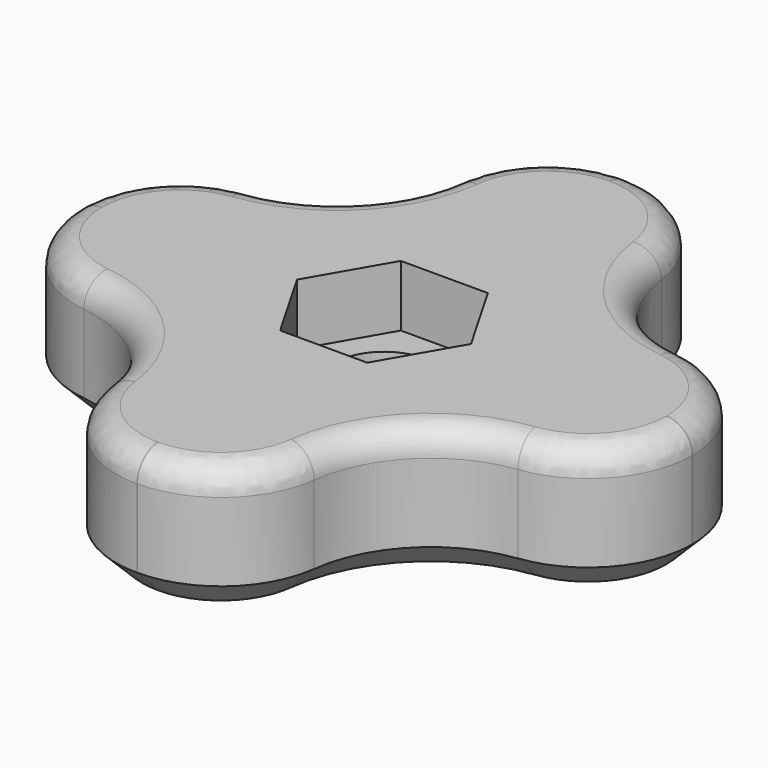
from build123d import *

# Parameters (mm, degrees)
F1_DEPTH = 12.7
F2_DEPTH = 6.731
F3_R     = 4.8895
F4_DEPTH = 25.4
F5_R     = 12.7
F6_R     = 10.16
F7_R     = 2.54
F8_SIZE  = 2.54


with BuildPart() as f1:
    # F0 (on Top) → F1 (new body)
    with BuildSketch(Plane.XY):
        Polygon((-10.0118708651, -30.0356119947), (0, -30.0356119947), (10.0118708651, -30.0356119947), (10.0118708651, -10.0118708651), (30.0356119947, -10.0118708651), (30.0356119947, 0), (30.0356119947, 10.0118708651), (10.0118708651, 10.0118708651), (10.0118708651, 30.0356119947), (0, 30.0356119947), (-10.0118708651, 30.0356119947), (-10.0118708651, 10.0118708651), (-30.0356119947, 10.0118708651), (-30.0356119947, 0), (-30.0356119947, -10.0118708651), (-10.0118708651, -10.0118708651), align=None)
        Polygon((-8.476194772, 0), (-4.238097386, 7.3406), (4.238097386, 7.3406), (8.476194772, 0), (4.238097386, -7.3406), (-4.238097386, -7.3406), align=None, mode=Mode.SUBTRACT)
    extrude(amount=F1_DEPTH)

    # F0 (on Top) → F2 (join)
    with BuildSketch(Plane.XY):
        Polygon((4.238097386, 7.3406), (-4.238097386, 7.3406), (-8.476194772, 0), (-4.238097386, -7.3406), (4.238097386, -7.3406), (8.476194772, 0), align=None)
    extrude(amount=F2_DEPTH)

    # F3 (on face) → F4 (cut)
    with BuildSketch(Plane.XY.offset(6.731)):
        Circle(F3_R)
    extrude(amount=-F4_DEPTH, mode=Mode.SUBTRACT)

    # F5
    f5_edges = [f1.edges().sort_by_distance(p)[0] for p in [
        (10.011871, -10.011871, 6.35),
        (-10.011871, -10.011871, 6.35),
        (-10.011871, 10.011871, 6.35),
        (10.011871, 10.011871, 6.35),
    ]]
    fillet(f5_edges, radius=F5_R)

    # F6
    f6_edges = [f1.edges().sort_by_distance(p)[0] for p in [
        (10.011871, 30.035612, 6.35),
        (-10.011871, 30.035612, 6.35),
        (30.035612, 10.011871, 6.35),
        (30.035612, -10.011871, 6.35),
        (10.011871, -30.035612, 6.35),
        (-10.011871, -30.035612, 6.35),
        (-30.035612, -10.011871, 6.35),
        (-30.035612, 10.011871, 6.35),
    ]]
    fillet(f6_edges, radius=F6_R)

    # F7
    f7_edges = [f1.edges().sort_by_distance(p)[0] for p in [
        (13.731615, -13.731615, 12.7),
        (13.731615, 13.731615, 12.7),
        (-13.731615, 13.731615, 12.7),
        (-13.731615, -13.731615, 12.7),
    ]]
    fillet(f7_edges, radius=F7_R)

    # F8
    f8_edges = [f1.edges().sort_by_distance(p)[0] for p in [
        (13.731615, -13.731615, 0),
        (-13.731615, -13.731615, 0),
        (-13.731615, 13.731615, 0),
        (13.731615, 13.731615, 0),
    ]]
    chamfer(f8_edges, length=F8_SIZE)


solid = f1.part
